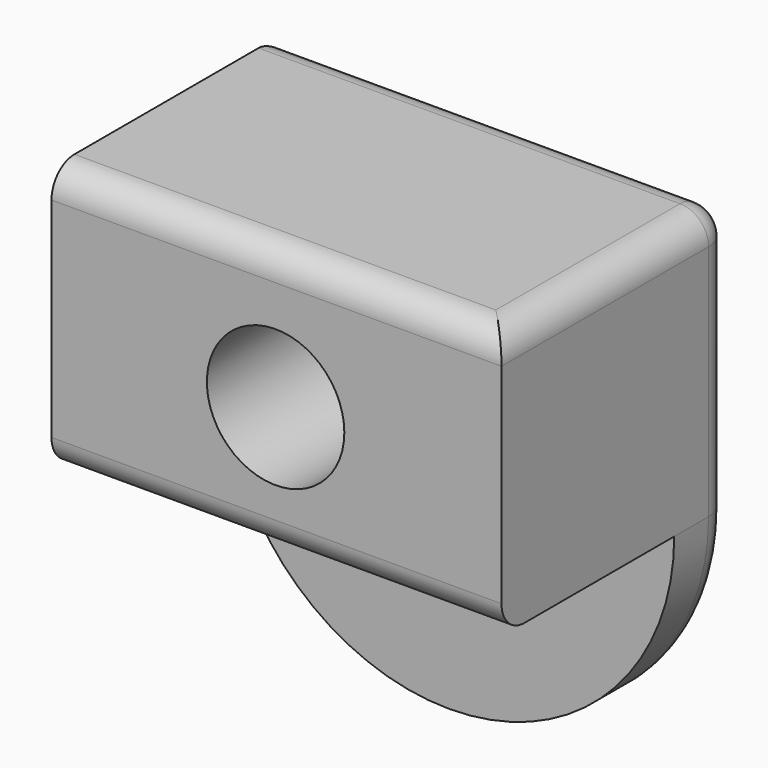
from build123d import *

# Parameters (mm, degrees)
F0_W     = 80
F0_H     = 47.3202
F0_R     = 12.2174
F1_DEPTH = 51.0794
F2_DEPTH = 12.7
F3_R     = 5.08
F4_R     = 5.08


with BuildPart() as f1:
    # F0 (on Front) → F1 (new body)
    with BuildSketch(Plane.XZ):
        with Locations((-11.767063, 24.444504)):
            Rectangle(F0_W, F0_H)
        with Locations((-11.929573, 23.557259)):
            Circle(F0_R, mode=Mode.SUBTRACT)
    extrude(amount=F1_DEPTH)

    # F0 (on Front) → F2 (join)
    with BuildSketch(Plane.XZ):
        with BuildLine():
            Line((28.232937, 0.784404), (-51.767063, 0.784404))
            ThreePointArc((-51.767063, 0.784404), (-11.767063, -39.215596), (28.232937, 0.784404))
        make_face()
    extrude(amount=F2_DEPTH)

    # F3
    f3_edges = [f1.edges().sort_by_distance(p)[0] for p in [
        (28.232937, -25.5397, 48.104604),
        (-11.767063, -51.0794, 0.784404),
        (-11.767063, -51.0794, 48.104604),
    ]]
    fillet(f3_edges, radius=F3_R)

    # F4
    f4_edges = [f1.edges().sort_by_distance(p)[0] for p in [
        (-14.307063, 0, 48.104604),
    ]]
    fillet(f4_edges, radius=F4_R)


solid = f1.part
